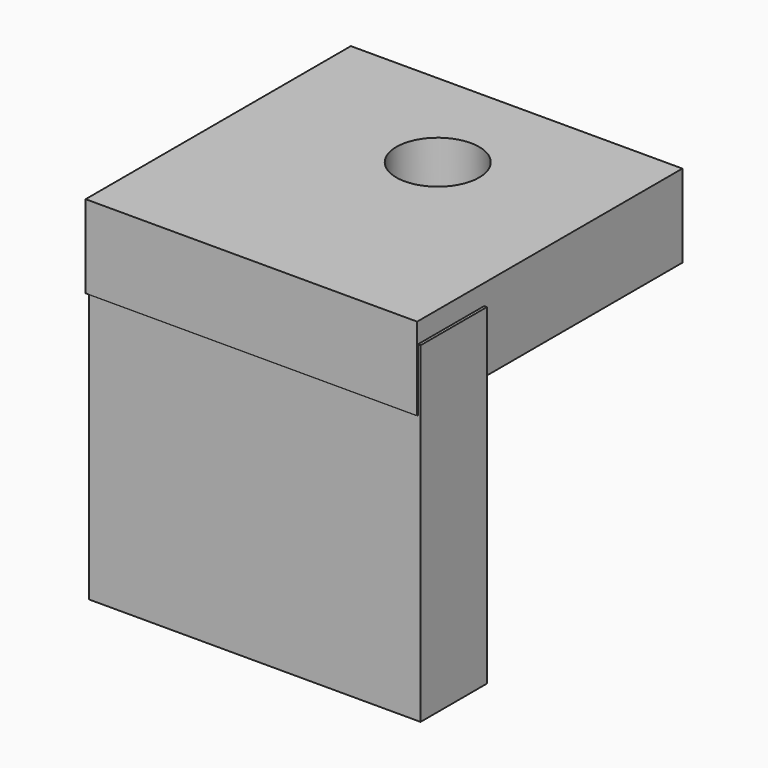
from build123d import *

# Parameters (mm, degrees)
F0_W     = 50.8
F0_H     = 50.8
F1_DEPTH = 12.7
F2_W     = 50.8
F2_H     = 50.8
F3_DEPTH = 12.7
F4_R     = 6.35
F5_DEPTH = 25.4


with BuildPart() as f1:
    # F0 (on Front) → F1 (new body)
    with BuildSketch(Plane.XZ):
        with Locations((1.379482, -15.815881)):
            Rectangle(F0_W, F0_H)
    extrude(amount=F1_DEPTH)

    # F2 (on Top) → F3 (join)
    with BuildSketch(Plane.XY):
        with Locations((0.965637, 12.567736)):
            Rectangle(F2_W, F2_H)
    extrude(amount=F3_DEPTH)

    # F4 (on face) → F5 (cut)
    with BuildSketch(Plane.XY):
        with Locations((2.483068, 20.968137)):
            Circle(F4_R)
    extrude(amount=F5_DEPTH, mode=Mode.SUBTRACT)


solid = f1.part
